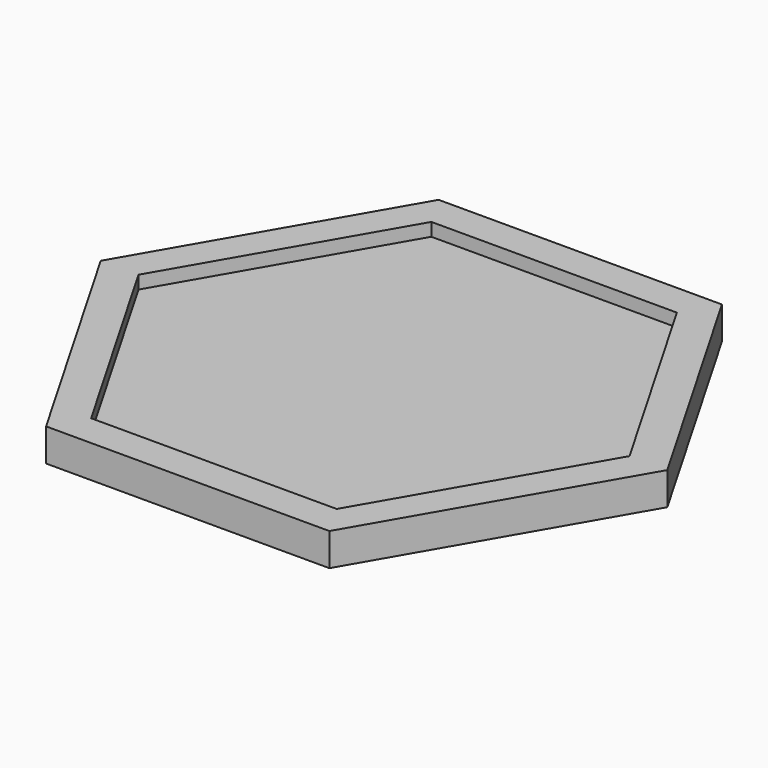
from build123d import *

# Parameters (mm, degrees)
F1_DEPTH = 5
F3_DEPTH = 2


with BuildPart() as f1:
    # F0 (on Top) → F1 (new body)
    with BuildSketch(Plane.XY):
        Polygon((21.650635, 37.5), (-21.650635, 37.5), (-43.30127, 0), (-21.650635, -37.5), (21.650635, -37.5), (43.30127, 0), align=None)
    extrude(amount=F1_DEPTH)

    # F2 (on face) → F3 (cut)
    with BuildSketch(Plane.XY.offset(5)):
        Polygon((18.763884, 32.5), (-18.763884, 32.5), (-37.527767, 0), (-18.763884, -32.5), (18.763884, -32.5), (37.527767, 0), align=None)
    extrude(amount=-F3_DEPTH, mode=Mode.SUBTRACT)


solid = f1.part
